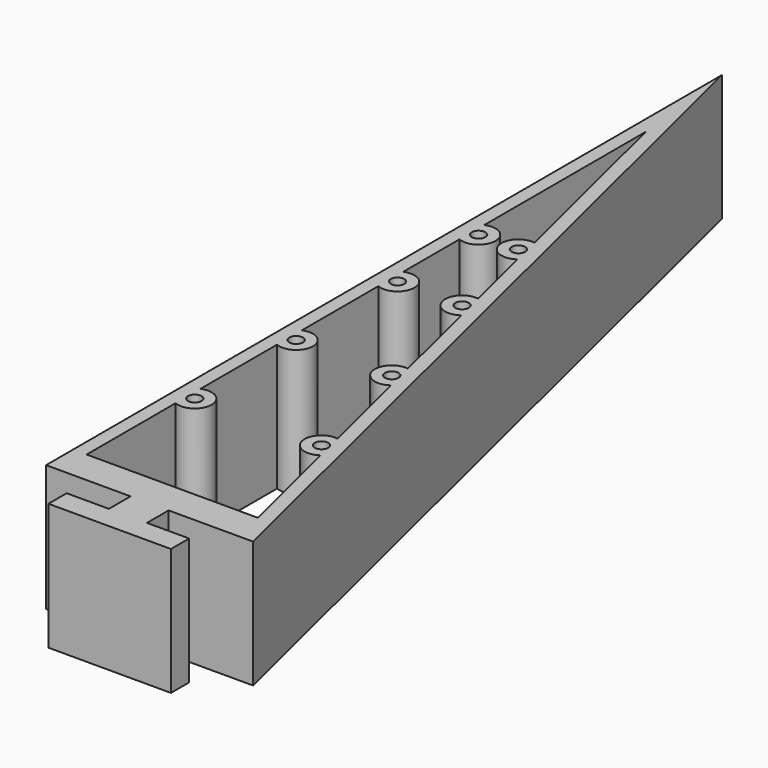
from build123d import *

# Parameters (mm, degrees)
F0_R     = 0.8
F1_DEPTH = 15


with BuildPart() as f1:
    # F0 (on Top) → F1 (new body)
    with BuildSketch(Plane.XY):
        Polygon((0, 2.7), (0, 0), (14.5, 0), (14.5, 2.7), (9.5, 2.7), (9.5, 5.9), (19.5, 5.9), (-5, 105.9), (-5, 5.9), (5, 5.9), (5, 2.7), align=None)
        with Locations((-2.6, 24.9)):
            Circle(F0_R, mode=Mode.SUBTRACT)
        with Locations((-2.6, 39.9)):
            Circle(F0_R, mode=Mode.SUBTRACT)
        with BuildLine():
            Line((16.87268, 9.9), (-3.4, 9.9))
            Line((-3.4, 9.9), (-3.4, 23.06697))
            ThreePointArc((-3.4, 23.06697), (-0.6, 24.9), (-3.4, 26.73303))
            Line((-3.4, 26.73303), (-3.4, 38.06697))
            ThreePointArc((-3.4, 38.06697), (-0.6, 39.9), (-3.4, 41.73303))
            Line((-3.4, 41.73303), (-3.4, 53.06697))
            ThreePointArc((-3.4, 53.06697), (-0.6, 54.9), (-3.4, 56.73303))
            Line((-3.4, 56.73303), (-3.4, 65.06697))
            ThreePointArc((-3.4, 65.06697), (-0.6, 66.9), (-3.4, 68.73303))
            Line((-3.4, 68.73303), (-3.4, 72.41676))
            Line((-3.4, 72.41676), (-3.4, 75.38324))
            Line((-3.4, 75.38324), (-3.4, 92.645632))
            Line((-3.4, 92.645632), (0.804118, 75.485968))
            Line((0.804118, 75.485968), (1.513291, 72.591384))
            Line((1.513291, 72.591384), (2.423841, 68.874852))
            ThreePointArc((2.423841, 68.874852), (0.165131, 66.424076), (3.300917, 65.29495))
            Line((3.300917, 65.29495), (5.363841, 56.874852))
            ThreePointArc((5.363841, 56.874852), (3.105131, 54.424076), (6.240917, 53.29495))
            Line((6.240917, 53.29495), (9.038841, 41.874852))
            ThreePointArc((9.038841, 41.874852), (6.780131, 39.424076), (9.915917, 38.29495))
            Line((9.915917, 38.29495), (12.713841, 26.874852))
            ThreePointArc((12.713841, 26.874852), (10.455131, 24.424076), (13.590917, 23.29495))
            Line((13.590917, 23.29495), (16.87268, 9.9))
        make_face(mode=Mode.SUBTRACT)
        with Locations((12.39768, 24.9)):
            Circle(F0_R, mode=Mode.SUBTRACT)
        with Locations((8.72268, 39.9)):
            Circle(F0_R, mode=Mode.SUBTRACT)
        with Locations((-2.6, 54.9)):
            Circle(F0_R, mode=Mode.SUBTRACT)
        with Locations((-2.6, 66.9)):
            Circle(F0_R, mode=Mode.SUBTRACT)
        with Locations((5.04768, 54.9)):
            Circle(F0_R, mode=Mode.SUBTRACT)
        with Locations((2.10768, 66.9)):
            Circle(F0_R, mode=Mode.SUBTRACT)
    extrude(amount=F1_DEPTH)


solid = f1.part
